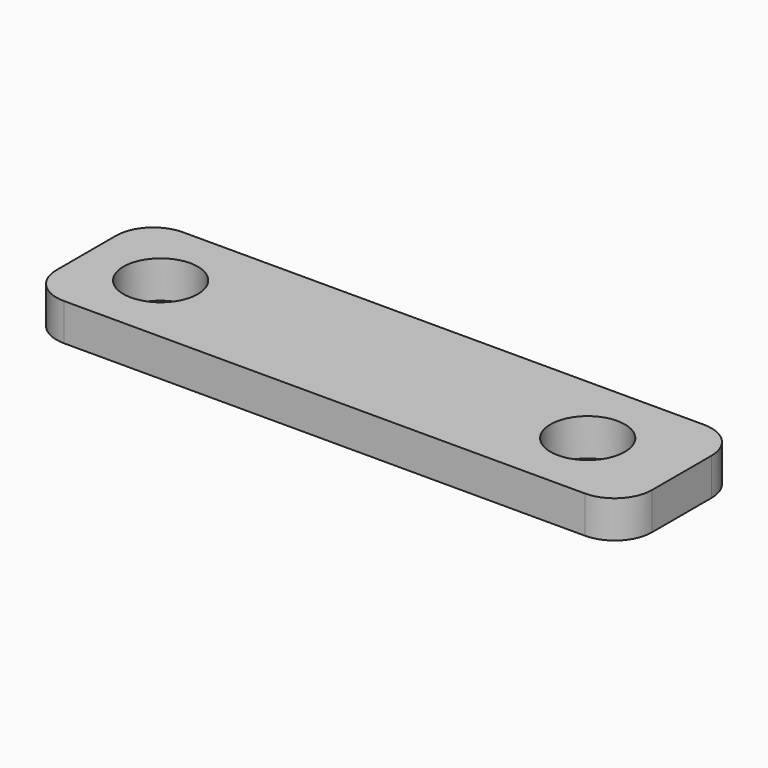
from build123d import *

# Parameters (mm, degrees)
F0_W     = 80
F0_H     = 20
F1_DEPTH = 5
F2_R     = 5
F3_DEPTH = 5.001
F4_R     = 5


with BuildPart() as f1:
    # F0 (on Top) → F1 (new body)
    with BuildSketch(Plane.XY):
        Rectangle(F0_W, F0_H)
    extrude(amount=F1_DEPTH)

    # F2 (on Top) → F3 (cut, through all)
    with BuildSketch(Plane.XY):
        with Locations((-30.004952, 0)):
            Circle(F2_R)
        with Locations((27.362093, 0)):
            Circle(F2_R)
    extrude(amount=F3_DEPTH, mode=Mode.SUBTRACT)

    # F4
    f4_edges = [f1.edges().sort_by_distance(p)[0] for p in [
        (40, -10, 2.5),
        (40, 10, 2.5),
        (-40, -10, 2.5),
        (-40, 10, 2.5),
    ]]
    fillet(f4_edges, radius=F4_R)


solid = f1.part
